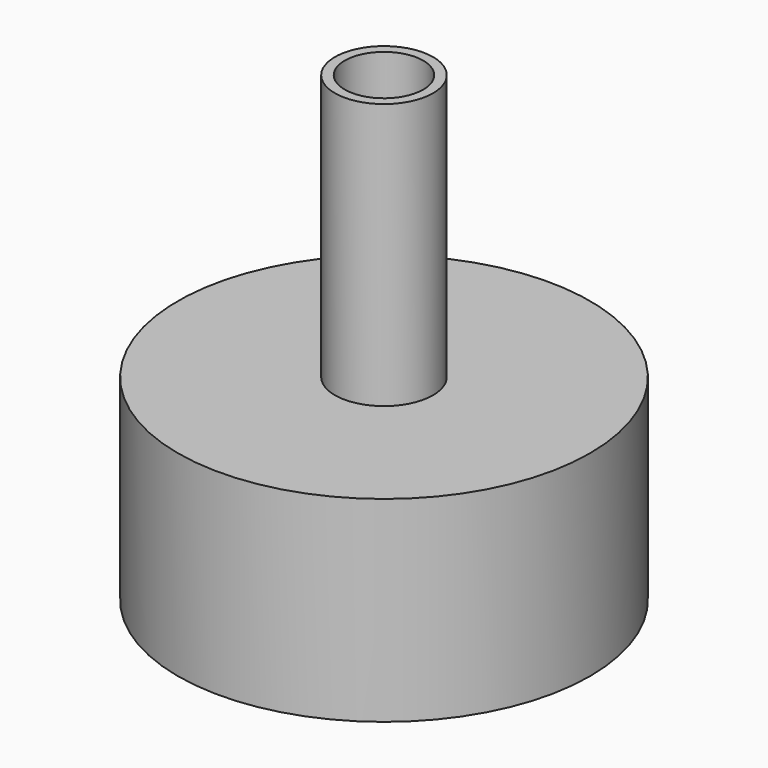
from build123d import *

# Parameters (mm, degrees)
F0_R     = 6.3
F0_R_2   = 6
F2_DEPTH = 6
F3_R     = 1.5
F4_DEPTH = 8.128
F5_R     = 1.2
F6_DEPTH = 25.4
F7_DEPTH = 4.3


with BuildPart() as f2:
    # F0 (on Top) → F2 (new body)
    with BuildSketch(Plane.XY):
        Circle(F0_R)
        Circle(F0_R_2, mode=Mode.SUBTRACT)
        Circle(F0_R_2)
    extrude(amount=F2_DEPTH)

    # F3 (on face) → F4 (join)
    with BuildSketch(Plane.XY.offset(6)):
        Circle(F3_R)
    extrude(amount=F4_DEPTH)

    # F5 (on face) → F6 (cut)
    with BuildSketch(Plane.XY.offset(14.128)):
        Circle(F5_R)
    extrude(amount=-F6_DEPTH, mode=Mode.SUBTRACT)

    # F0 (on Top) → F7 (cut)
    with BuildSketch(Plane.XY):
        Circle(F0_R_2)
    extrude(amount=F7_DEPTH, mode=Mode.SUBTRACT)


solid = f2.part
